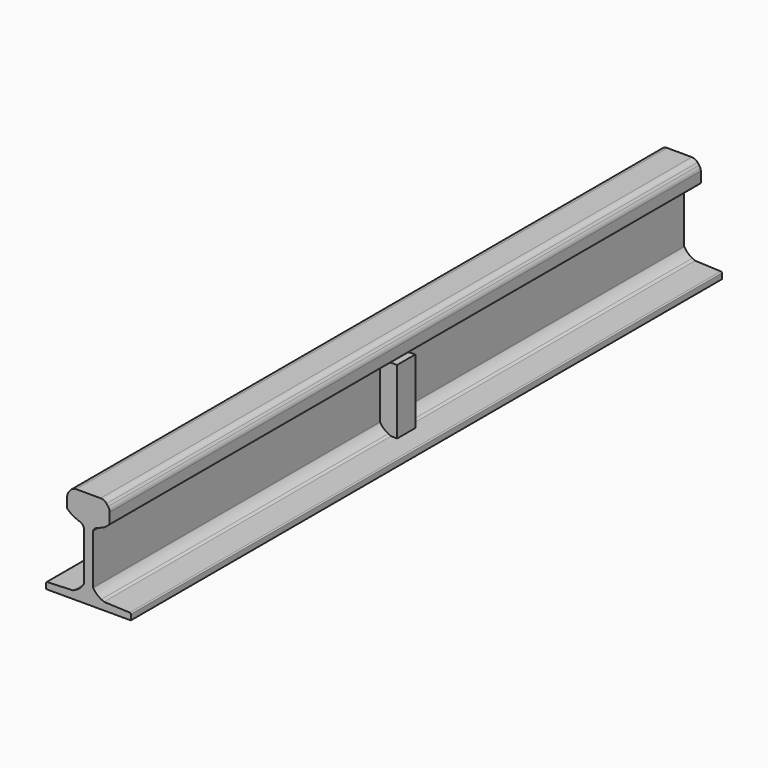
from build123d import *

# Parameters (mm, degrees)
F1_DEPTH = 650
F2_DEPTH = 650
F3_DEPTH = 20


with BuildPart() as f1:
    # F0 (on Front) → F1 (new body, symmetric)
    with BuildSketch(Plane.XZ):
        with BuildLine():
            Line((-85.3235702982, -66.0703902778), (-85.3235702982, -75.6497139107))
            Line((-85.3235702982, -75.6497139107), (63.7756578624, -75.6497139107))
            Line((63.7756578624, -75.6497139107), (63.7756578624, -66.0703902778))
            ThreePointArc((63.7756578624, -66.0703902778), (63.2181887651, -64.685072771), (61.8565532677, -64.0720269641))
            Line((61.8565532677, -64.0720269641), (16.536237672, -62.2374229799))
            Line((16.536237672, -62.2374229799), (11.8292871562, -59.8943959289))
            ThreePointArc((11.8292871562, -59.8943959289), (3.927875719, -54.5007088526), (-2.2178988902, -47.1690230008))
            ThreePointArc((-2.2178988902, -47.1690230008), (-2.4459194517, -46.6589703681), (-2.5239562179, -46.1057458859))
            Line((-2.5239562179, -46.1057458859), (-2.5239562179, 3.5298217554))
            Line((-2.5239562179, 3.5298217554), (-2.5239562179, 41.6880398989))
            Line((-2.5239562179, 41.6880398989), (-1.1780247749, 44.1008258038))
            ThreePointArc((-1.1780247749, 44.1008258038), (0.270485849, 45.9099683385), (2.2303186176, 47.1469951197))
            Line((2.2303186176, 47.1469951197), (17.0868914574, 53.3710867167))
            Line((17.0868914574, 53.3710867167), (25.5383929173, 60.061007626))
            ThreePointArc((25.5383929173, 60.061007626), (26.3769749844, 61.1067171561), (26.6764297018, 62.4132603727))
            Line((26.6764297018, 62.4132603727), (26.6764297018, 79.7755250827))
            ThreePointArc((26.6764297018, 79.7755250827), (25.9470320629, 84.0688125989), (23.8406885177, 87.8803287646))
            Line((23.8406885177, 87.8803287646), (20.9902360949, 91.4550897713))
            ThreePointArc((20.9902360949, 91.4550897713), (16.4667907014, 95.0627249443), (10.8259772789, 96.3502860893))
            Line((10.8259772789, 96.3502860893), (-10.7739562179, 96.3502860893))
            Line((-10.7739562179, 96.3502860893), (-32.3738897147, 96.3502860893))
            ThreePointArc((-32.3738897147, 96.3502860893), (-38.0147031372, 95.0627249443), (-42.5381485306, 91.4550897713))
            Line((-42.5381485306, 91.4550897713), (-45.3886009535, 87.8803287646))
            ThreePointArc((-45.3886009535, 87.8803287646), (-47.4949444986, 84.0688125989), (-48.2243421376, 79.7755250827))
            Line((-48.2243421376, 79.7755250827), (-48.2243421376, 62.4132603727))
            ThreePointArc((-48.2243421376, 62.4132603727), (-47.9248874202, 61.1067171561), (-47.0863053531, 60.061007626))
            Line((-47.0863053531, 60.061007626), (-38.6348038932, 53.3710867167))
            Line((-38.6348038932, 53.3710867167), (-23.7782310533, 47.1469951197))
            ThreePointArc((-23.7782310533, 47.1469951197), (-21.8183982848, 45.9099683385), (-20.3698876609, 44.1008258038))
            Line((-20.3698876609, 44.1008258038), (-19.0239562179, 41.6880398989))
            Line((-19.0239562179, 41.6880398989), (-19.0239562179, -46.1057458859))
            ThreePointArc((-19.0239562179, -46.1057458859), (-19.101992984, -46.6589703681), (-19.3300135456, -47.1690230008))
            ThreePointArc((-19.3300135456, -47.1690230008), (-25.4757881548, -54.5007088526), (-33.3771995919, -59.8943959289))
            Line((-33.3771995919, -59.8943959289), (-38.0841501077, -62.2374229799))
            Line((-38.0841501077, -62.2374229799), (-83.4044657034, -64.0720269641))
            ThreePointArc((-83.4044657034, -64.0720269641), (-84.7661012009, -64.685072771), (-85.3235702982, -66.0703902778))
        make_face()
    extrude(amount=F1_DEPTH, both=True)


with BuildPart() as f1b:
    # F0 (on Front) → F1, piece 2 (new body, symmetric)
    with BuildSketch(Plane.XZ):
        with BuildLine():
            Line((17.5119378942, 52.3565221913), (2.6553650544, 46.1324305944))
            ThreePointArc((2.6553650544, 46.1324305944), (1.0035063838, 45.089793974), (-0.2173808633, 43.5649456144))
            Line((-0.2173808633, 43.5649456144), (-1.423954925, 41.4019789161))
            Line((-1.423954925, 41.4019789161), (-1.423954925, -46.1057472322))
            ThreePointArc((-1.423954925, -46.1057472322), (-1.3888384328, -46.3546978765), (-1.2862293337, -46.5842212176))
            ThreePointArc((-1.2862293337, -46.5842212176), (4.6663921226, -53.6854823746), (12.3194731818, -58.9096533637))
            Line((12.3194731818, -58.9096533637), (16.8158063074, -61.1478392355))
            Line((16.8158063074, -61.1478392355), (28.2388199121, -61.6102523056))
            Line((28.2388199121, -61.6102523056), (28.2388199121, 52.3565221913))
            Line((28.2388199121, 52.3565221913), (17.5119378942, 52.3565221913))
        make_face()
    extrude(amount=F1_DEPTH, both=True)

    # F0 (on Front) → F2 (cut, symmetric)
    with BuildSketch(Plane.XZ):
        with BuildLine():
            Line((17.5119378942, 52.3565221913), (2.6553650544, 46.1324305944))
            ThreePointArc((2.6553650544, 46.1324305944), (1.0035063838, 45.089793974), (-0.2173808633, 43.5649456144))
            Line((-0.2173808633, 43.5649456144), (-1.423954925, 41.4019789161))
            Line((-1.423954925, 41.4019789161), (-1.423954925, -46.1057472322))
            ThreePointArc((-1.423954925, -46.1057472322), (-1.3888384328, -46.3546978765), (-1.2862293337, -46.5842212176))
            ThreePointArc((-1.2862293337, -46.5842212176), (4.6663921226, -53.6854823746), (12.3194731818, -58.9096533637))
            Line((12.3194731818, -58.9096533637), (16.8158063074, -61.1478392355))
            Line((16.8158063074, -61.1478392355), (28.2388199121, -61.6102523056))
            Line((28.2388199121, -61.6102523056), (28.2388199121, 52.3565221913))
            Line((28.2388199121, 52.3565221913), (17.5119378942, 52.3565221913))
        make_face()
    extrude(amount=F2_DEPTH, both=True, mode=Mode.SUBTRACT)


with BuildPart() as f3:
    # F0 (on Front) → F3 (new body, symmetric)
    with BuildSketch(Plane.XZ):
        with BuildLine():
            Line((17.5119378942, 52.3565221913), (2.6553650544, 46.1324305944))
            ThreePointArc((2.6553650544, 46.1324305944), (1.0035063838, 45.089793974), (-0.2173808633, 43.5649456144))
            Line((-0.2173808633, 43.5649456144), (-1.423954925, 41.4019789161))
            Line((-1.423954925, 41.4019789161), (-1.423954925, -46.1057472322))
            ThreePointArc((-1.423954925, -46.1057472322), (-1.3888384328, -46.3546978765), (-1.2862293337, -46.5842212176))
            ThreePointArc((-1.2862293337, -46.5842212176), (4.6663921226, -53.6854823746), (12.3194731818, -58.9096533637))
            Line((12.3194731818, -58.9096533637), (16.8158063074, -61.1478392355))
            Line((16.8158063074, -61.1478392355), (28.2388199121, -61.6102523056))
            Line((28.2388199121, -61.6102523056), (28.2388199121, 52.3565221913))
            Line((28.2388199121, 52.3565221913), (17.5119378942, 52.3565221913))
        make_face()
    extrude(amount=F3_DEPTH, both=True)


solid = Compound([f1.part, f3.part])
